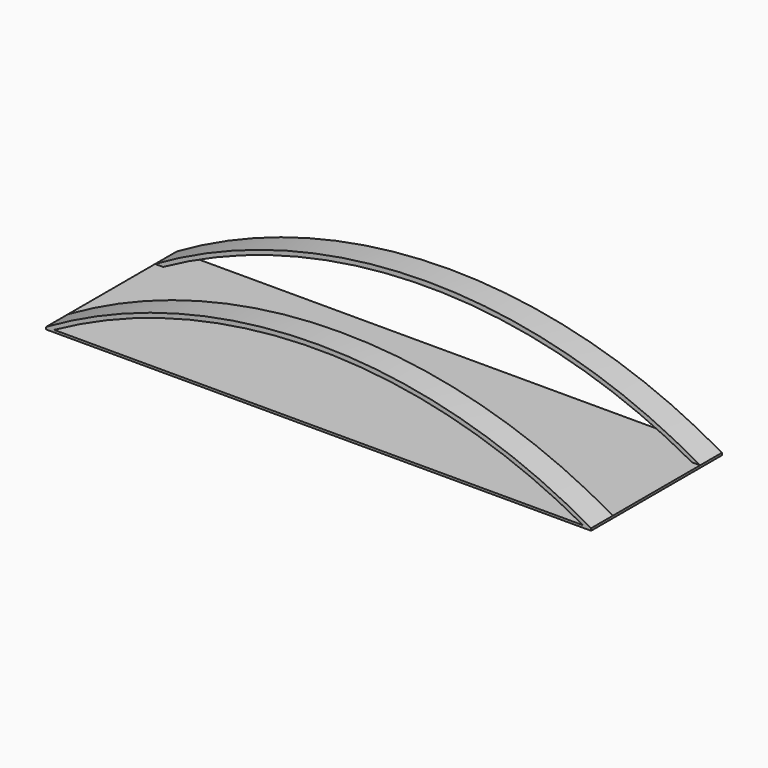
from build123d import *

# Parameters (mm, degrees)
F1_DEPTH = 228.6
F2_DEPTH = 152.4
F3_W     = 457.2
F3_H     = 6.35
F4_DEPTH = 762


with BuildPart() as f1:
    # F0 (on Front) → F1 (new body, symmetric)
    with BuildSketch(Plane.XZ):
        with BuildLine():
            Line((739.566909, 0), (762, 0))
            ThreePointArc((762, 0), (0, 204.177285), (-762, 0))
            Line((-762, 0), (-739.566909, 0))
            ThreePointArc((-739.566909, 0), (0, 191.477285), (739.566909, 0))
        make_face()
    extrude(amount=F1_DEPTH, both=True)

    # F0 (on Front) → F2 (cut, symmetric)
    with BuildSketch(Plane.XZ):
        with BuildLine():
            Line((739.566909, 0), (762, 0))
            ThreePointArc((762, 0), (0, 204.177285), (-762, 0))
            Line((-762, 0), (-739.566909, 0))
            ThreePointArc((-739.566909, 0), (0, 191.477285), (739.566909, 0))
        make_face()
    extrude(amount=F2_DEPTH, both=True, mode=Mode.SUBTRACT)

    # F3 (on Right) → F4 (join, symmetric)
    with BuildSketch(Plane.YZ):
        with Locations((0, -3.175)):
            Rectangle(F3_W, F3_H)
    extrude(amount=F4_DEPTH, both=True)


solid = f1.part
